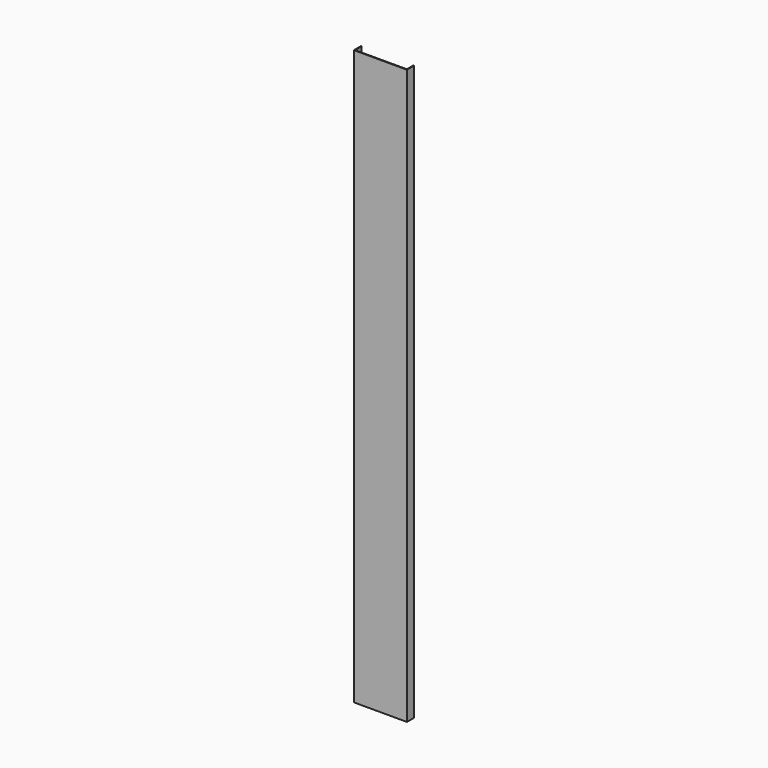
from build123d import *

# Parameters (mm, degrees)
F0_W     = 117
F0_H     = 37
F1_DEPTH = 1300
F3_DEPTH = 1300


with BuildPart() as f1:
    # F0 (on Top) → F1 (new body)
    with BuildSketch(Plane.XY):
        with BuildLine():
            ThreePointArc((60, 19.6), (59.882843, 19.882843), (59.6, 20))
            Line((59.6, 20), (-59.6, 20))
            ThreePointArc((-59.6, 20), (-59.882843, 19.882843), (-60, 19.6))
            Line((-60, 19.6), (-60, -19.6))
            ThreePointArc((-60, -19.6), (-59.882843, -19.882843), (-59.6, -20))
            Line((-59.6, -20), (59.6, -20))
            ThreePointArc((59.6, -20), (59.882843, -19.882843), (60, -19.6))
            Line((60, -19.6), (60, 19.6))
        make_face()
        Rectangle(F0_W, F0_H, mode=Mode.SUBTRACT)
    extrude(amount=F1_DEPTH)

    # F2 (on face) → F3 (cut)
    with BuildSketch(Plane.XY.offset(1300)):
        with BuildLine():
            Line((-60, 0), (-58.5, 0))
            Line((-58.5, 0), (-58.5, 18.5))
            Line((-58.5, 18.5), (58.5, 18.5))
            Line((58.5, 18.5), (58.5, 0))
            Line((58.5, 0), (60, 0))
            Line((60, 0), (60, 19.6))
            ThreePointArc((60, 19.6), (59.882843, 19.882843), (59.6, 20))
            Line((59.6, 20), (-59.6, 20))
            ThreePointArc((-59.6, 20), (-59.882843, 19.882843), (-60, 19.6))
            Line((-60, 19.6), (-60, 0))
        make_face()
    extrude(amount=-F3_DEPTH, mode=Mode.SUBTRACT)


solid = f1.part
